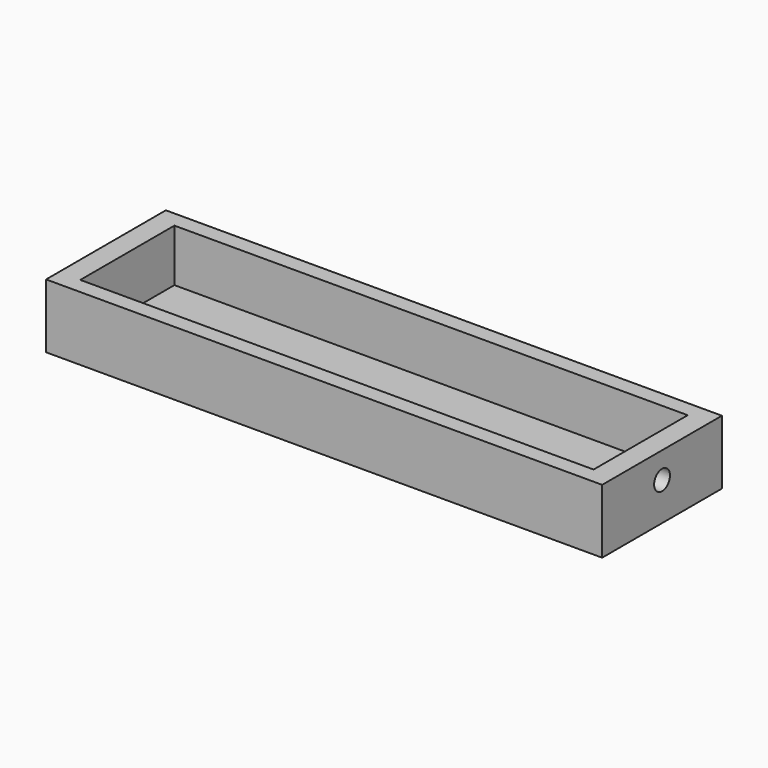
from build123d import *

# Parameters (mm, degrees)
F0_W     = 48
F0_H     = 11
F1_DEPTH = 1.1
F0_W_2   = 52
F0_H_2   = 14
F2_DEPTH = 6
F3_R     = 0.925956
F4_DEPTH = 25


with BuildPart() as f1:
    # F0 (on Top) → F1 (new body)
    with BuildSketch(Plane.XY):
        Rectangle(F0_W, F0_H)
    extrude(amount=F1_DEPTH)

    # F0 (on Top) → F2 (join)
    with BuildSketch(Plane.XY):
        Rectangle(F0_W_2, F0_H_2)
        Rectangle(F0_W, F0_H, mode=Mode.SUBTRACT)
    extrude(amount=F2_DEPTH)

    # F3 (on face) → F4 (cut)
    with BuildSketch(Plane(origin=(24, 0, 0), x_dir=(0, -1, 0), z_dir=(-1, 0, 0))):
        with Locations((0, 3.55)):
            Circle(F3_R)
    extrude(amount=-F4_DEPTH, mode=Mode.SUBTRACT)


solid = f1.part
